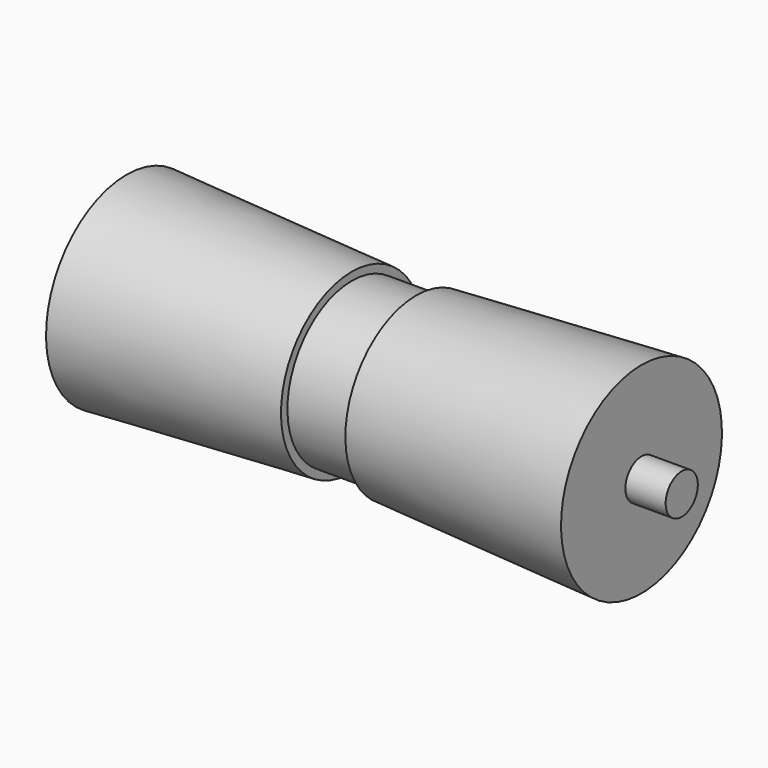
from build123d import *

# Parameters (mm, degrees)
F2_R     = 7.9375
F3_DEPTH = 117.475


with BuildPart() as f1:
    # F0 (on Front) → F1 (revolve)
    with BuildSketch(Plane.XZ):
        Polygon((-101.6, 39.6875), (-101.6, 0), (101.6, 0), (101.6, 39.6875), (12.7, 34.925), (12.7, 31.75), (-12.7, 31.75), (-12.7, 34.925), align=None)
    revolve(axis=Axis((0, 0, 0), (1, 0, 0)))

    # F2 (on Right) → F3 (join, symmetric)
    with BuildSketch(Plane.YZ):
        Circle(F2_R)
    extrude(amount=F3_DEPTH, both=True)


solid = f1.part
